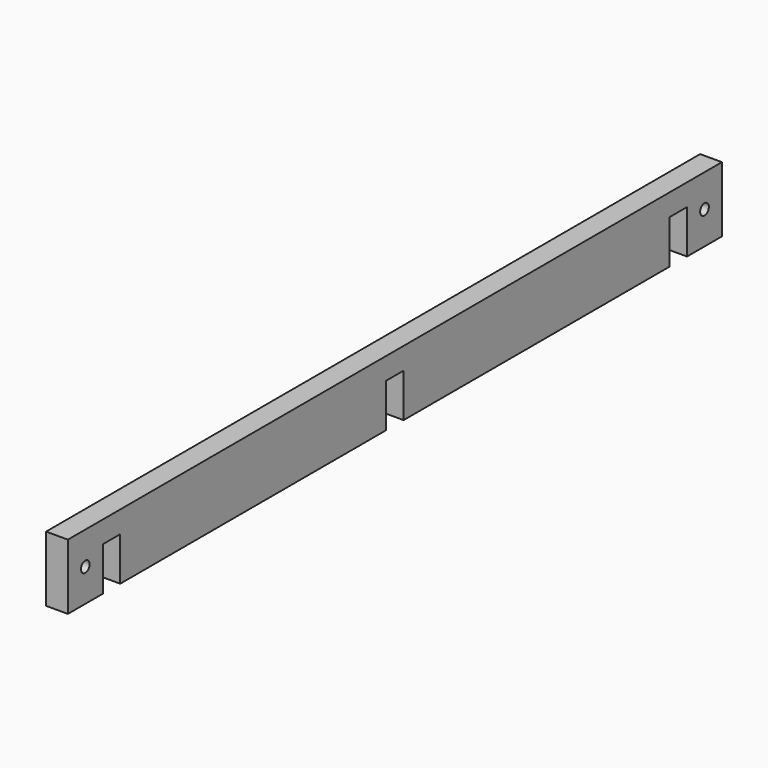
from build123d import *

# Parameters (mm, degrees)
F0_W     = 1905
F0_H     = 152.4
F1_DEPTH = 50.8
F2_W     = 50.8
F2_H     = 101.6
F2_R     = 12.7
F3_DEPTH = 50.801


with BuildPart() as f1:
    # F0 (on Right) → F1 (new body)
    with BuildSketch(Plane.YZ):
        with Locations((952.5, 76.2)):
            Rectangle(F0_W, F0_H)
    extrude(amount=F1_DEPTH)

    # F2 (on face) → F3 (cut, through all)
    with BuildSketch(Plane.YZ.offset(50.8)):
        with Locations((127, 50.8)):
            Rectangle(F2_W, F2_H)
        with Locations((1778, 50.8)):
            Rectangle(F2_W, F2_H)
        with Locations((50.8, 76.2)):
            Circle(F2_R)
        with Locations((1854.2, 76.2)):
            Circle(F2_R)
        with Locations((952.5, 50.8)):
            Rectangle(F2_W, F2_H)
    extrude(amount=-F3_DEPTH, mode=Mode.SUBTRACT)


solid = f1.part
